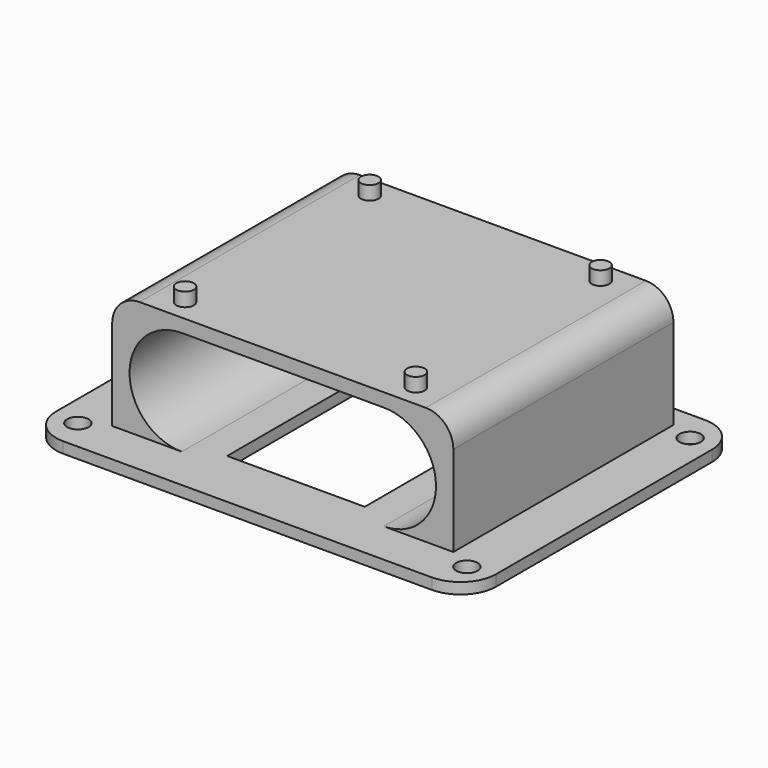
from build123d import *

# Parameters (mm, degrees)
PAD_DEPTH    = 33
SKETCH002_W  = 62
SKETCH002_H  = 21.45
PAD002_DEPTH = 25
FILLET_R     = 5
SKETCH003_R  = 1.6
PAD003_DEPTH = 2.5
SKETCH001_R  = 1.95
PAD001_DEPTH = 2
SKETCH004_W  = 40
SKETCH004_H  = 25
POCKET_DEPTH = 5


with BuildPart() as pad:
    # Sketch → Pad (new body, symmetric)
    with BuildSketch(Plane(origin=(0, 0, 2), x_dir=(1, 0, 0), z_dir=(0, -1, 0))):
        with BuildLine():
            ThreePointArc((-18.35, 19), (-27.85, 9.5), (-18.35, 0))
            Line((-18.35, 0), (18.35, 0))
            ThreePointArc((18.35, 0), (27.85, 9.5), (18.35, 19))
            Line((-18.35, 19), (18.35, 19))
        make_face()
    extrude(amount=PAD_DEPTH, both=True)


with BuildPart() as pad003:
    # Sketch002 → Pad002 (new body, symmetric)
    with BuildSketch(Plane.XZ.offset(-2)):
        with Locations((0, 12.725)):
            Rectangle(SKETCH002_W, SKETCH002_H)
    extrude(amount=PAD002_DEPTH, both=True)

    # Fillet
    fillet_edges = [pad003.edges().sort_by_distance(p)[0] for p in [
        (-31, 2, 23.45),
        (31, 2, 23.45),
    ]]
    fillet(fillet_edges, radius=FILLET_R)

    # Cut: cut Pad
    add(pad.part, mode=Mode.SUBTRACT)

    # Sketch003 → Pad003 (new body)
    with BuildSketch(Plane.XY.offset(23.45)):
        with Locations((-20.975, 22.975)):
            Circle(SKETCH003_R)
        with Locations((-20.975, -18.975)):
            Circle(SKETCH003_R)
        with Locations((20.975, 22.975)):
            Circle(SKETCH003_R)
        with Locations((20.975, -18.975)):
            Circle(SKETCH003_R)
    extrude(amount=PAD003_DEPTH)


with BuildPart() as fusion:
    # Sketch001 → Pad001 (new body)
    with BuildSketch(Plane(origin=(0, 0, 0), x_dir=(0, 1, 0), z_dir=(0, 0, 1))):
        with BuildLine():
            Line((-24.5, 40), (24.5, 40))
            ThreePointArc((31, 33.5), (29.096194, 38.096194), (24.5, 40))
            Line((31, 33.5), (31, -33.5))
            ThreePointArc((24.5, -40), (29.096194, -38.096194), (31, -33.5))
            Line((24.5, -40), (-24.5, -40))
            ThreePointArc((-31, -33.5), (-29.096194, -38.096194), (-24.5, -40))
            Line((-31, -33.5), (-31, 33.5))
            ThreePointArc((-24.5, 40), (-29.096194, 38.096194), (-31, 33.5))
        make_face()
        with Locations((-25.35, 35.35)):
            Circle(SKETCH001_R, mode=Mode.SUBTRACT)
        with Locations((25.35, 35.35)):
            Circle(SKETCH001_R, mode=Mode.SUBTRACT)
        with Locations((25.35, -35.35)):
            Circle(SKETCH001_R, mode=Mode.SUBTRACT)
        with Locations((-25.35, -35.35)):
            Circle(SKETCH001_R, mode=Mode.SUBTRACT)
    extrude(amount=PAD001_DEPTH)

    # Sketch004 → Pocket (cut)
    with BuildSketch(Plane.YX):
        Rectangle(SKETCH004_W, SKETCH004_H)
    extrude(amount=-POCKET_DEPTH, mode=Mode.SUBTRACT)

    # Fusion: union Pad003
    add(pad003.part)


solid = fusion.part
